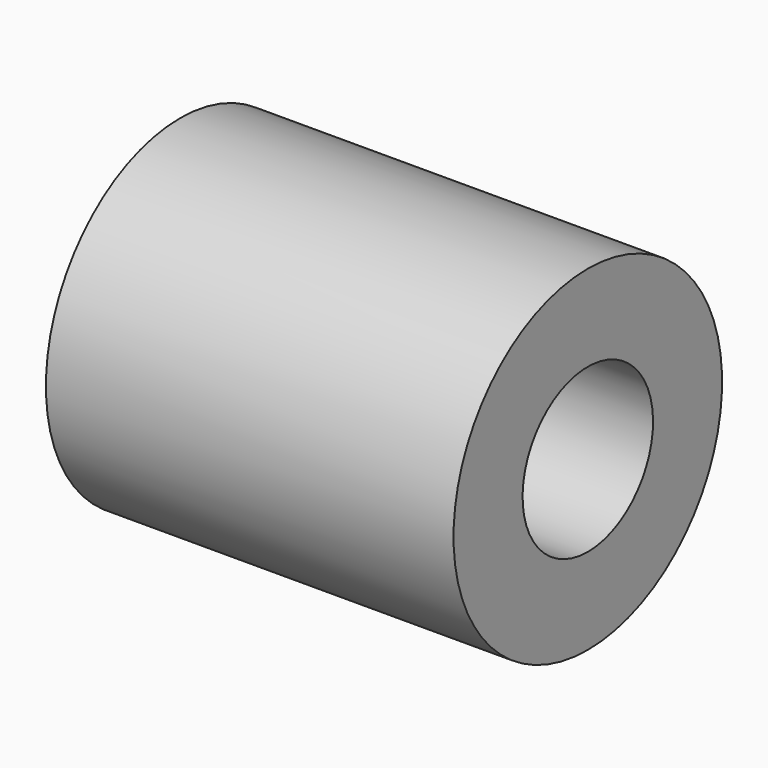
from build123d import *

# Parameters (mm, degrees)
CYLINDER1392_R     = 1.7
CYLINDER1392_DEPTH = 8.5
CYLINDER1390_R     = 3.5
CYLINDER1390_DEPTH = 8.5


with BuildPart() as cylinder1392:
    # Cylinder1392 → Cylinder1392 (new body)
    with BuildSketch(Plane(origin=(436, 103, 100), x_dir=(0, 0, -1), z_dir=(1, 0, 0))):
        Circle(CYLINDER1392_R)
    extrude(amount=CYLINDER1392_DEPTH)


with BuildPart() as bucket_left_half_long_spacer:
    # Cylinder1390 → Cylinder1390 (new body)
    with BuildSketch(Plane(origin=(436, 103, 100), x_dir=(0, 0, -1), z_dir=(1, 0, 0))):
        Circle(CYLINDER1390_R)
    extrude(amount=CYLINDER1390_DEPTH)

    # Cut014357: cut Cylinder1392
    add(cylinder1392.part, mode=Mode.SUBTRACT)


with BuildPart() as bucket_left_half_long_spacer_1:
    # Cut014357 placement: moved
    add(bucket_left_half_long_spacer.part.moved(Location((42, 0, 0))))


solid = bucket_left_half_long_spacer_1.part
